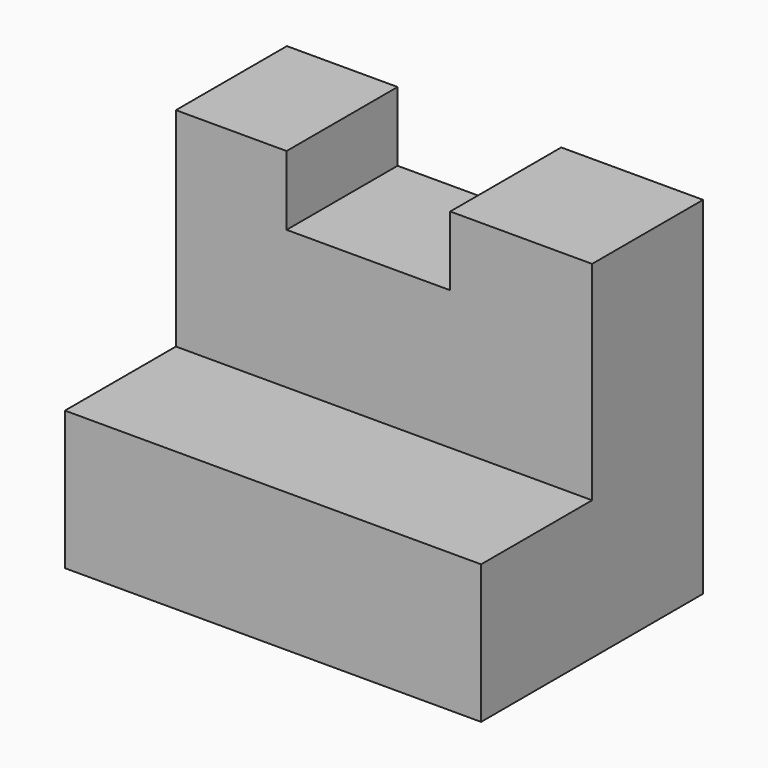
from build123d import *

# Parameters (mm, degrees)
F1_DEPTH = 25.4
F2_DEPTH = 12.7
F3_W     = 14.980048
F3_H     = 12.7
F4_DEPTH = 6.35


with BuildPart() as f1:
    # F0 (on Right) → F1 (new body)
    with BuildSketch(Plane.YZ):
        Polygon((-25.4, 0), (0, 0), (0, 31.75), (-12.7, 31.75), (-12.7, 12.7), (-25.4, 12.7), align=None)
    extrude(amount=F1_DEPTH)

    # F1_face (on face) → F2 (join)
    with BuildSketch(Plane(origin=(25.4, -9.978571, 13.153571), x_dir=(0, 1, 0), z_dir=(1, 0, 0))):
        Polygon((-15.421429, -13.153571), (9.978571, -13.153571), (9.978571, 18.596429), (-2.721429, 18.596429), (-2.721429, -0.453571), (-15.421429, -0.453571), align=None)
    extrude(amount=F2_DEPTH)

    # F3 (on face) → F4 (cut)
    with BuildSketch(Plane.XY.offset(31.75)):
        with Locations((17.623421, -6.35)):
            Rectangle(F3_W, F3_H)
    extrude(amount=-F4_DEPTH, mode=Mode.SUBTRACT)


solid = f1.part
